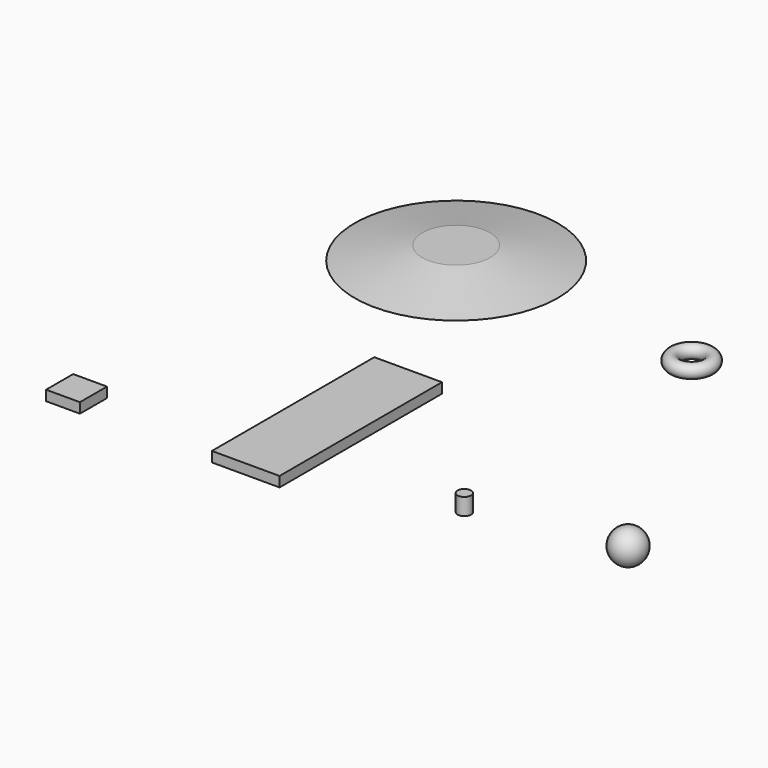
from build123d import *

# Parameters (mm, degrees)
BOX_W          = 10
BOX_H          = 10
BOX_DEPTH      = 3
BOX001_W       = 20
BOX001_H       = 60
BOX001_DEPTH   = 3
CYLINDER_R     = 2
CYLINDER_DEPTH = 5
TORUS_R        = 2


with BuildPart() as cube:
    # Box → Box (new body)
    with BuildSketch(Plane.XY):
        with Locations((5, 5)):
            Rectangle(BOX_W, BOX_H)
    extrude(amount=BOX_DEPTH)


with BuildPart() as cube001:
    # Box001 → Box001 (new body)
    with BuildSketch(Plane(origin=(49, 0, 0), x_dir=(1, 0, 0), z_dir=(0, 0, 1))):
        with Locations((10, 30)):
            Rectangle(BOX001_W, BOX001_H)
    extrude(amount=BOX001_DEPTH)


with BuildPart() as cylinder:
    # Cylinder → Cylinder (new body)
    with BuildSketch(Plane(origin=(110, 17, 0), x_dir=(1, 0, 0), z_dir=(0, 0, 1))):
        Circle(CYLINDER_R)
    extrude(amount=CYLINDER_DEPTH)


with BuildPart() as sphere:
    # Sphere → Sphere (revolve)
    with BuildSketch(Plane(origin=(156, 19.997804, 5), x_dir=(1, 0, 0), z_dir=(0, -1, 0))):
        with BuildLine():
            ThreePointArc((0, -5), (5, 0), (0, 5))
            Line((0, 5), (0, -5))
        make_face()
    revolve(axis=Axis((156, 19.997804, 5), (0, 0, 1)))


with BuildPart() as cone:
    # Cone → Cone (revolve)
    with BuildSketch(Plane(origin=(30, 113.988609, 0), x_dir=(1, 0, 0), z_dir=(0, -1, 0))):
        Polygon((0, 0), (30, 0), (10, 4), (0, 4), align=None)
    revolve(axis=Axis((30, 113.988609, 0), (0, 0, 1)))


with BuildPart() as torus:
    # Torus → Torus (revolve)
    with BuildSketch(Plane(origin=(106, 105.977218, 1.997067), x_dir=(1, 0, 0), z_dir=(0, -1, 0))):
        with Locations((5, 0)):
            Circle(TORUS_R)
    revolve(axis=Axis((106, 105.977218, 1.997067), (0, 0, 1)))


solid = Compound([cube.part, cube001.part, cylinder.part, sphere.part, cone.part, torus.part])
